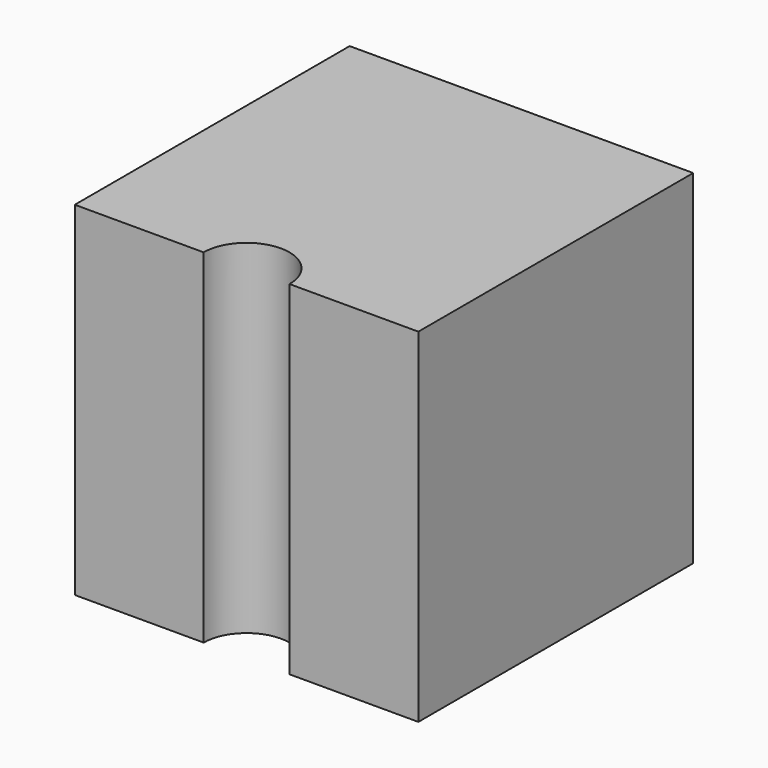
from build123d import *

# Parameters (mm, degrees)
F0_W     = 20
F0_H     = 20
F1_DEPTH = 20
F2_R     = 2.5
F3_DEPTH = 25


with BuildPart() as f1:
    # F0 (on Front) → F1 (new body)
    with BuildSketch(Plane.XZ):
        Rectangle(F0_W, F0_H)
    extrude(amount=F1_DEPTH)

    # F2 (on face) → F3 (cut)
    with BuildSketch(Plane(origin=(0, 0, -10), x_dir=(1, 0, 0), z_dir=(0, 0, -1))):
        with Locations((0, 20)):
            Circle(F2_R)
    extrude(amount=-F3_DEPTH, mode=Mode.SUBTRACT)


solid = f1.part
